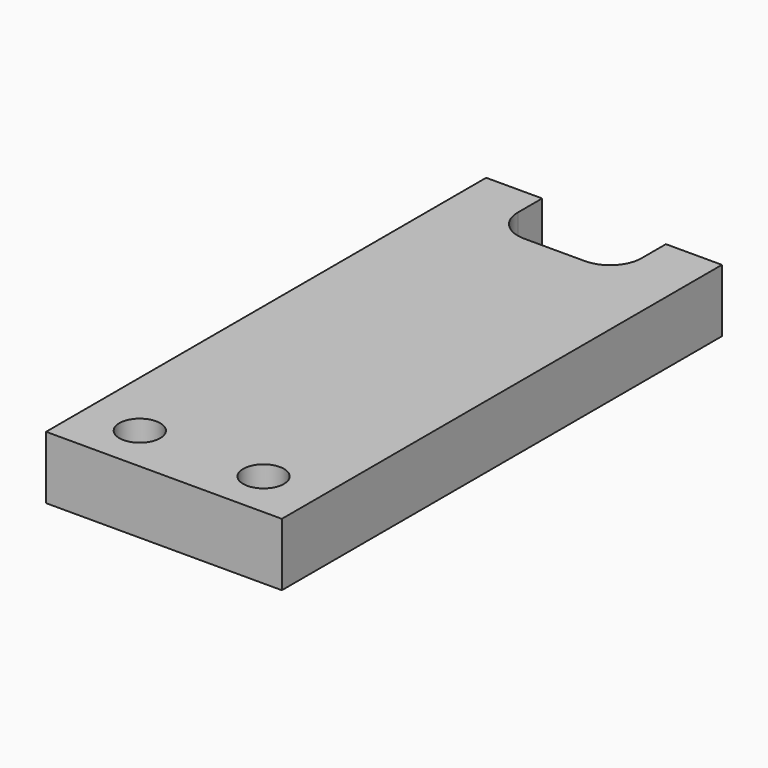
from build123d import *

# Parameters (mm, degrees)
F0_W     = 19.05
F0_H     = 44.45
F1_DEPTH = 5.08
F2_W     = 10
F2_H     = 5
F3_DEPTH = 25.4
F4_R     = 2.54
F6_D     = 3.3
F6_DEPTH = 12.7
F6_TIP   = 0.9914200214


with BuildPart() as f1:
    # F0 (on Top) → F1 (new body)
    with BuildSketch(Plane.XY):
        Rectangle(F0_W, F0_H)
    extrude(amount=F1_DEPTH)

    # F2 (on face) → F3 (cut)
    with BuildSketch(Plane.XY.offset(5.08)):
        with Locations((0, 24.725)):
            Rectangle(F2_W, F2_H)
        with Locations((0, 19.725)):
            Rectangle(F2_W, F2_H)
    extrude(amount=-F3_DEPTH, mode=Mode.SUBTRACT)

    # F4
    f4_edges = [f1.edges().sort_by_distance(p)[0] for p in [
        (-5, 17.225, 2.54),
        (5, 17.225, 2.54),
    ]]
    fillet(f4_edges, radius=F4_R)

    # F6
    with Locations(Plane.XY.offset(5.08)):
        with Locations((-5, -18.415), (5, -18.415)):
            Hole(F6_D / 2, depth=F6_DEPTH)
            with Locations((0, 0, -(F6_DEPTH + F6_TIP / 2))):  # 118° drill point
                Cone(0, F6_D / 2, F6_TIP, mode=Mode.SUBTRACT)


solid = f1.part
